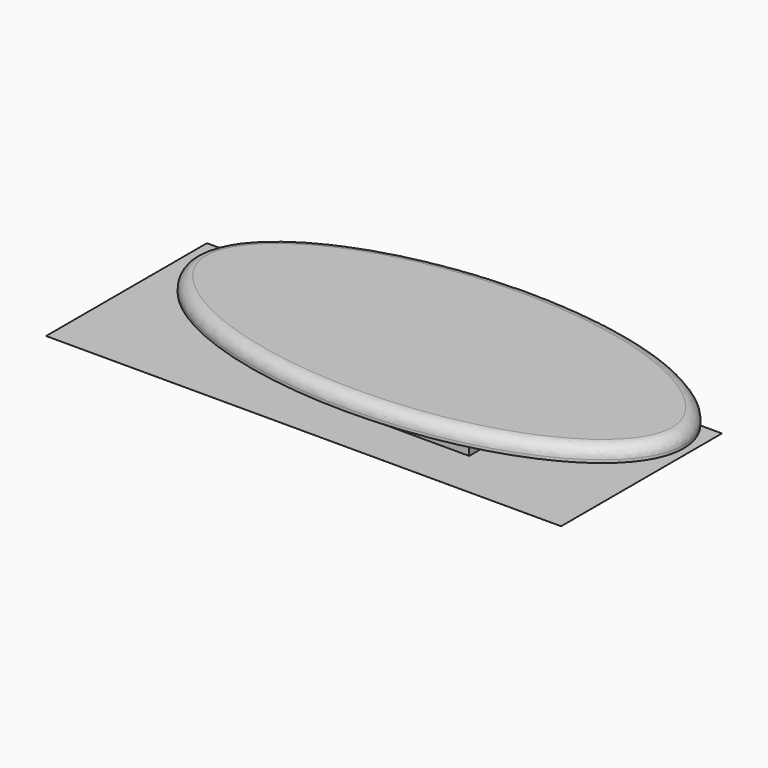
from build123d import *

# Parameters (mm, degrees)
F0_R     = 3.3655
F1_DEPTH = 31.75
F2_W     = 891.682207
F2_H     = 348.032892
F3_DEPTH = 0.0254
F6_DEPTH = 25.4
F7_R     = 20.32


with BuildPart() as f1:
    # F0 (on Top) → F1 (new body)
    with BuildSketch(Plane.XY):
        with BuildLine():
            Line((406.543787, 159.306382), (406.543787, 83.106382))
            Line((406.543787, 83.106382), (685.943787, 83.106382))
            Line((685.943787, 83.106382), (685.943787, 159.306382))
            Line((685.943787, 159.306382), (622.560314, 159.306382))
            ThreePointArc((622.560314, 159.306382), (616.278936, 160.968525), (611.641739, 165.51988))
            Line((611.641739, 165.51988), (551.703074, 266.413209))
            ThreePointArc((551.703074, 266.413209), (546.243787, 269.519958), (540.784499, 266.413209))
            Line((540.784499, 266.413209), (480.845835, 165.51988))
            ThreePointArc((480.845835, 165.51988), (476.208638, 160.968525), (469.92726, 159.306382))
            Line((469.92726, 159.306382), (406.543787, 159.306382))
        make_face()
        with Locations((431.943787, 108.506382)):
            Circle(F0_R, mode=Mode.SUBTRACT)
        with Locations((482.743787, 108.506382)):
            Circle(F0_R, mode=Mode.SUBTRACT)
        with Locations((533.543787, 108.506382)):
            Circle(F0_R, mode=Mode.SUBTRACT)
        with Locations((584.343787, 108.506382)):
            Circle(F0_R, mode=Mode.SUBTRACT)
        with Locations((635.143787, 108.506382)):
            Circle(F0_R, mode=Mode.SUBTRACT)
    extrude(amount=F1_DEPTH)


with BuildPart() as f3:
    # F2 (on Top) → F3 (new body)
    with BuildSketch(Plane.XY):
        with Locations((465.733617, 174.016446)):
            Rectangle(F2_W, F2_H)
    extrude(amount=F3_DEPTH)


with BuildPart() as f6:
    # F5 (on offset) → F6 (new body)
    with BuildSketch(Plane.XY.offset(57.15)):
        with BuildLine():
            add(Edge.make_bspline(
                [(967.135402, 195.712954), (967.135402, 543.510376), (332.198902, 369.611665), (-302.737598, 195.712954), (332.198902, 21.814242), (967.135402, -152.084469), (967.135402, 195.712954)],
                knots=[0, 0, 0, 2.094395, 2.094395, 4.18879, 4.18879, 6.283185, 6.283185, 6.283185], degree=2, weights=[1, 0.5, 1, 0.5, 1, 0.5, 1]))
        make_face()
    extrude(amount=F6_DEPTH)

    # F7
    f7_edges = [f6.edges().sort_by_distance(p)[0] for p in [
        (120.553402, 195.71305, 82.55),
    ]]
    fillet(f7_edges, radius=F7_R)


solid = Compound([f1.part, f3.part, f6.part])
